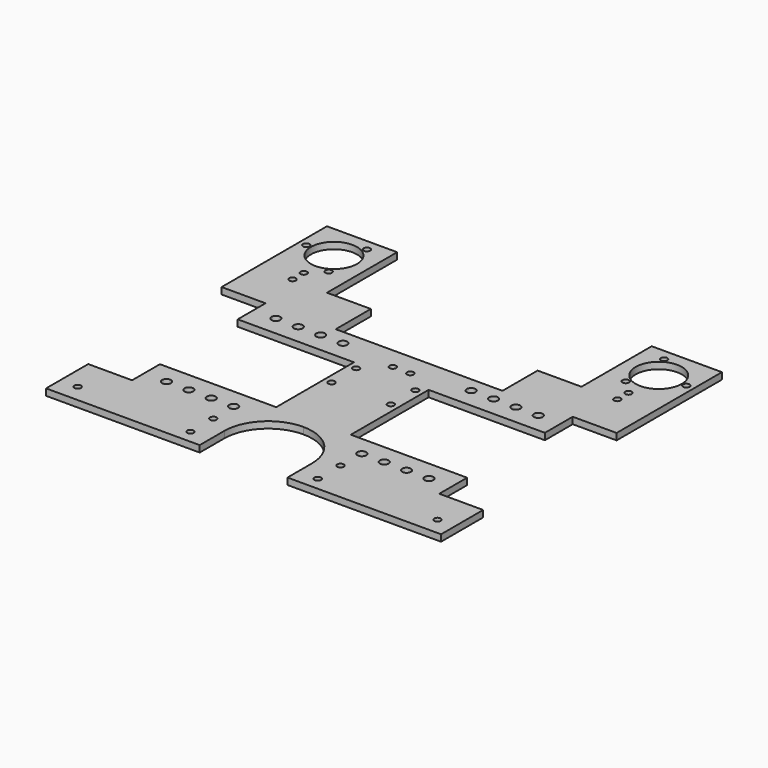
from build123d import *

# Parameters (mm, degrees)
SKETCH_R   = 10.5
SKETCH_R_2 = 1.5
SKETCH_R_3 = 2
PAD_DEPTH  = 3


with BuildPart() as part:
    # Sketch → Pad (new body)
    with BuildSketch(Plane.XY):
        with BuildLine():
            Line((0, 0), (0, 24))
            Line((0, 24), (20, 24))
            Line((20, 24), (20, 39.85))
            Line((20, 39.85), (73, 39.85))
            Line((73, 39.85), (73, 84.15))
            Line((73, 84.15), (20, 84.15))
            Line((20, 84.15), (20, 100))
            Line((20, 100), (0, 100))
            Line((0, 100), (0, 160))
            Line((0, 160), (32, 160))
            Line((32, 160), (32, 120))
            Line((52, 120), (32, 120))
            Line((52, 100), (52, 120))
            Line((52, 100), (90, 100))
            Line((90, 100), (90, 34))
            ThreePointArc((90, 34), (75.857864, 28.142136), (70, 14))
            Line((70, 0), (70, 14))
            Line((0, 0), (70, 0))
        make_face()
        with Locations((16, 144)):
            Circle(SKETCH_R, mode=Mode.SUBTRACT)
        with Locations((22.3, 154.91192)):
            Circle(SKETCH_R_2, mode=Mode.SUBTRACT)
        with Locations((22.3, 133.08808)):
            Circle(SKETCH_R_2, mode=Mode.SUBTRACT)
        with Locations((3.4, 144)):
            Circle(SKETCH_R_2, mode=Mode.SUBTRACT)
        with Locations((30.2, 30.85)):
            Circle(SKETCH_R_3, mode=Mode.SUBTRACT)
        with Locations((40.4, 30.85)):
            Circle(SKETCH_R_3, mode=Mode.SUBTRACT)
        with Locations((50.6, 30.85)):
            Circle(SKETCH_R_3, mode=Mode.SUBTRACT)
        with Locations((60.8, 30.85)):
            Circle(SKETCH_R_3, mode=Mode.SUBTRACT)
        with Locations((30.2, 93.15)):
            Circle(SKETCH_R_3, mode=Mode.SUBTRACT)
        with Locations((40.4, 93.15)):
            Circle(SKETCH_R_3, mode=Mode.SUBTRACT)
        with Locations((50.6, 93.15)):
            Circle(SKETCH_R_3, mode=Mode.SUBTRACT)
        with Locations((60.8, 93.15)):
            Circle(SKETCH_R_3, mode=Mode.SUBTRACT)
        with Locations((76.5, 81)):
            Circle(SKETCH_R_2, mode=Mode.SUBTRACT)
        with Locations((76.5, 67)):
            Circle(SKETCH_R_2, mode=Mode.SUBTRACT)
        with Locations((61, 19)):
            Circle(SKETCH_R_2, mode=Mode.SUBTRACT)
        with Locations((61, 6)):
            Circle(SKETCH_R_2, mode=Mode.SUBTRACT)
        with Locations((8, 8)):
            Circle(SKETCH_R_2, mode=Mode.SUBTRACT)
        with Locations((86, 90)):
            Circle(SKETCH_R_2, mode=Mode.SUBTRACT)
        with Locations((16, 126.8)):
            Circle(SKETCH_R_2, mode=Mode.SUBTRACT)
        with Locations((16, 120.4)):
            Circle(SKETCH_R_2, mode=Mode.SUBTRACT)
    pad = extrude(amount=PAD_DEPTH)

    # Mirrored: Pad across face of Pad
    add(pad.mirror(Plane(origin=(90, 67, 1.5), x_dir=(0, 1, 0), z_dir=(1, 0, 0))))


solid = part.part
